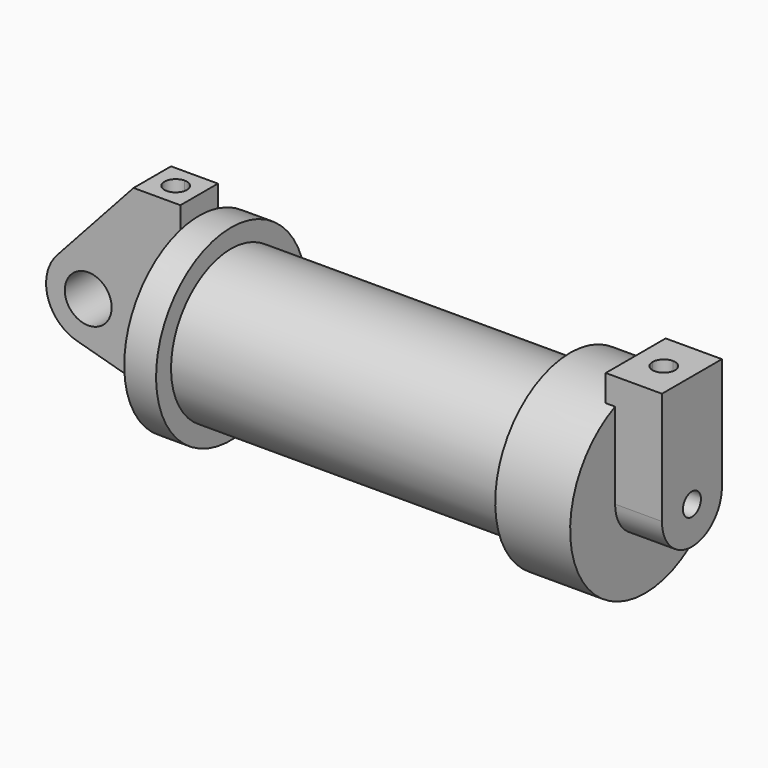
from build123d import *

# Parameters (mm, degrees)
F0_R          = 3.175
F0_W          = 5.842
F0_H          = 12.7
F2_DEPTH      = 3.175
F2_DEPTH_BACK = 3.175
F3_R          = 1.524
F4_DEPTH      = 6.35
F4_DEPTH_BACK = 1.27
F5_DEPTH      = 56.134
F8_DEPTH      = 17.78
F9_DEPTH      = 10.414


with BuildPart() as f1:
    # F0 (on Front) → F1 (revolve)
    with BuildSketch(Plane.XZ):
        Polygon((5.842, 12.7), (5.842, 0), (66.294, 0), (66.294, 12.7), (56.134, 12.7), (56.134, 10.16), (10.16, 10.16), (10.16, 12.7), align=None)
    revolve(axis=Axis((-3.3274, 0, 0), (-1, 0, 0)))

    # F0 (on Front) → F2 (join, two sides)
    with BuildSketch(Plane.XZ) as f2_sk:
        with BuildLine():
            Line((5.842, 0), (0, 0))
            Line((0, 0), (-0.9398, 0))
            ThreePointArc((-0.9398, 0), (-3.1957909266, -4.5493385486), (-8.1826630726, -5.5069827884))
            Line((-8.1826630726, -5.5069827884), (5.842, -9.398))
            Line((5.842, -9.398), (5.842, 0))
        make_face()
        with BuildLine():
            Line((-0.9398, 0), (0, 0))
            Line((0, 0), (0, 12.7))
            Line((0, 12.7), (5.842, 12.7))
            Line((5.842, 12.7), (5.842, 15.24))
            Line((5.842, 15.24), (-0.508, 15.24))
            Line((-0.508, 15.24), (-10.8806298187, 3.8475430269))
            ThreePointArc((-10.8806298187, 3.8475430269), (-4.5919612295, 5.3297205562), (-0.9398, 0))
        make_face()
        with BuildLine():
            ThreePointArc((-8.1826630726, -5.5069827884), (-3.1957909266, -4.5493385486), (-0.9398, 0))
            ThreePointArc((-0.9398, 0), (-4.5919612295, 5.3297205562), (-10.8806298187, 3.8475430269))
            ThreePointArc((-10.8806298187, 3.8475430269), (-12.1459778134, -1.5837270034), (-8.1826630726, -5.5069827884))
        make_face()
        with Locations((-6.6548, 0)):
            Circle(F0_R, mode=Mode.SUBTRACT)
        with Locations((2.921, 6.35)):
            Rectangle(F0_W, F0_H)
    extrude(amount=F2_DEPTH)
    extrude(f2_sk.sketch, amount=-F2_DEPTH_BACK)

    # F3 (on face) → F4 (join, two sides)
    with BuildSketch(Plane.YZ.offset(66.294)) as f4_sk:
        with BuildLine():
            ThreePointArc((-5.08, 11.6397422652), (-0.0019395312, 12.6999998519), (5.0764445437, 11.6412933472))
            Line((5.0764445437, 11.6412933472), (5.0753448882, 15.241550914))
            Line((5.0753448882, 15.241550914), (-0.0176815379, 15.241550914))
            Line((-0.0176815379, 15.241550914), (-5.08, 15.241550914))
            Line((-5.08, 15.241550914), (-5.08, 11.6397422652))
        make_face()
        with BuildLine():
            ThreePointArc((-5.08, 0), (-0.0007758125, 5.0799999408), (5.079999763, 0.0015516249))
            Line((5.079999763, 0.0015516249), (5.0764445437, 11.6412933472))
            ThreePointArc((5.0764445437, 11.6412933472), (-0.0019395312, 12.6999998519), (-5.08, 11.6397422652))
            Line((-5.08, 11.6397422652), (-5.08, 0))
        make_face()
        with BuildLine():
            ThreePointArc((-5.08, 0), (0, -5.08), (5.08, 0))
            ThreePointArc((5.08, 0), (5.0799999408, 0.0007758125), (5.079999763, 0.0015516249))
            ThreePointArc((5.079999763, 0.0015516249), (-0.0007758125, 5.0799999408), (-5.08, 0))
        make_face()
        Circle(F3_R, mode=Mode.SUBTRACT)
    extrude(amount=F4_DEPTH)
    extrude(f4_sk.sketch, amount=-F4_DEPTH_BACK)

    # F5 (cut, through all): a face of the model
    f5_faces = [f1.faces().sort_by_distance(p)[0] for p in [
        (66.294, 0, 0),
    ]]
    extrude(f5_faces, amount=-F5_DEPTH, mode=Mode.SUBTRACT)

    # F6 (on face) → F8 (cut)
    with BuildSketch(Plane.XY.offset(15.24)):
        with BuildLine():
            ThreePointArc((2.667, -1.524), (3.7446307345, -1.0776307345), (4.191, 0))
            ThreePointArc((4.191, 0), (3.7446307345, 1.0776307345), (2.667, 1.524))
            Line((2.667, 1.524), (2.667, 0))
            Line((2.667, 0), (2.667, -1.524))
        make_face()
        with BuildLine():
            Line((2.667, 0), (2.667, 1.524))
            ThreePointArc((2.667, 1.524), (1.143, 0), (2.667, -1.524))
            Line((2.667, -1.524), (2.667, 0))
        make_face()
    extrude(amount=-F8_DEPTH, mode=Mode.SUBTRACT)

    # F7 (on face) → F9 (cut)
    with BuildSketch(Plane.XY.offset(15.241550914)):
        with BuildLine():
            Line((68.834, -0.0023275559), (68.834, 1.5216724441))
            ThreePointArc((68.834, 1.5216724441), (67.7563692655, 1.0753031786), (67.31, -0.0023275559))
            Line((67.31, -0.0023275559), (68.834, -0.0023275559))
        make_face()
        with BuildLine():
            ThreePointArc((70.358, -0.0023275559), (69.9116307345, 1.0753031786), (68.834, 1.5216724441))
            Line((68.834, 1.5216724441), (68.834, -0.0023275559))
            Line((68.834, -0.0023275559), (70.358, -0.0023275559))
        make_face()
        with BuildLine():
            Line((68.834, -1.5263275559), (68.834, -0.0023275559))
            Line((68.834, -0.0023275559), (67.31, -0.0023275559))
            ThreePointArc((67.31, -0.0023275559), (67.7563692655, -1.0799582904), (68.834, -1.5263275559))
        make_face()
        with BuildLine():
            Line((70.358, -0.0023275559), (68.834, -0.0023275559))
            Line((68.834, -0.0023275559), (68.834, -1.5263275559))
            ThreePointArc((68.834, -1.5263275559), (69.9116307345, -1.0799582904), (70.358, -0.0023275559))
        make_face()
    extrude(amount=-F9_DEPTH, mode=Mode.SUBTRACT)


solid = f1.part
